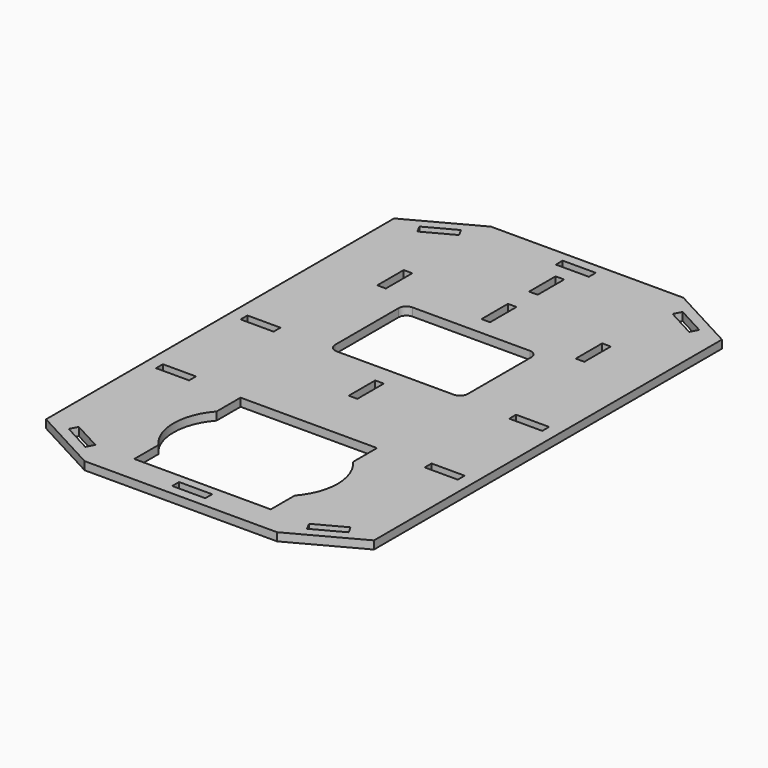
from build123d import *

# Parameters (mm, degrees)
F0_W     = 12.7
F0_H     = 3.299692
F0_H_2   = 3.3
F0_W_2   = 3.3
F0_H_3   = 12.7
F0_H_4   = 3.300001
F1_DEPTH = 3.1


with BuildPart() as f1:
    # F0 (on Top) → F1 (new body)
    with BuildSketch(Plane.XY):
        Polygon((-62.95, -83.5), (-36.95, -97.5), (36.95, -97.5), (62.95, -83.5), (62.95, 83.5), (36.95, 97.5), (-36.95, 97.5), (-62.95, 83.5), align=None)
        Polygon((-53.739412, -84.143676), (-52.174883, -81.238121), (-40.9929, -87.259189), (-42.557429, -90.164744), align=None, mode=Mode.SUBTRACT)
        with Locations((-51.5786, -35.350154)):
            Rectangle(F0_W, F0_H, mode=Mode.SUBTRACT)
        with Locations((0, -92.05)):
            Rectangle(F0_W, F0_H_2, mode=Mode.SUBTRACT)
        with BuildLine():
            Line((-26.2, -47.6), (-26.2, -36.1))
            Line((-26.2, -36.1), (26.2, -36.1))
            Line((26.2, -36.1), (26.2, -47.6))
            ThreePointArc((26.2, -47.6), (31.5, -61.6), (26.2, -75.6))
            Line((26.2, -75.6), (26.2, -87.1))
            Line((26.2, -87.1), (-26.2, -87.1))
            Line((-26.2, -87.1), (-26.2, -75.6))
            ThreePointArc((-26.2, -75.6), (-31.5, -61.6), (-26.2, -47.6))
        make_face(mode=Mode.SUBTRACT)
        Polygon((52.174883, -81.238121), (53.739412, -84.143676), (42.557429, -90.164744), (40.9929, -87.259189), align=None, mode=Mode.SUBTRACT)
        with Locations((0, -8.5)):
            Rectangle(F0_W_2, F0_H_3, mode=Mode.SUBTRACT)
        with Locations((51.5786, -35.350154)):
            Rectangle(F0_W, F0_H, mode=Mode.SUBTRACT)
        with Locations((-51.5786, 5.199692)):
            Rectangle(F0_W, F0_H_4, mode=Mode.SUBTRACT)
        with Locations((-38.1, 52.8)):
            Rectangle(F0_W_2, F0_H_3, mode=Mode.SUBTRACT)
        Polygon((-42.557429, 90.164744), (-40.9929, 87.259189), (-52.174883, 81.238121), (-53.739412, 84.143676), align=None, mode=Mode.SUBTRACT)
        with BuildLine():
            Line((22.5, 5.35), (-22.5, 5.35))
            ThreePointArc((-22.5, 5.35), (-24.62132, 6.22868), (-25.5, 8.35))
            Line((-25.5, 8.35), (-25.5, 38.85))
            ThreePointArc((-25.5, 38.85), (-24.62132, 40.97132), (-22.5, 41.85))
            Line((-22.5, 41.85), (22.5, 41.85))
            ThreePointArc((22.5, 41.85), (24.62132, 40.97132), (25.5, 38.85))
            Line((25.5, 38.85), (25.5, 8.35))
            ThreePointArc((25.5, 8.35), (24.62132, 6.22868), (22.5, 5.35))
        make_face(mode=Mode.SUBTRACT)
        with Locations((51.5786, 5.199692)):
            Rectangle(F0_W, F0_H_4, mode=Mode.SUBTRACT)
        with Locations((0, 55.2)):
            Rectangle(F0_W_2, F0_H_3, mode=Mode.SUBTRACT)
        with Locations((0, 78.05)):
            Rectangle(F0_W_2, F0_H_3, mode=Mode.SUBTRACT)
        with Locations((0, 92.05)):
            Rectangle(F0_W, F0_H_2, mode=Mode.SUBTRACT)
        with Locations((38.1, 52.8)):
            Rectangle(F0_W_2, F0_H_3, mode=Mode.SUBTRACT)
        Polygon((52.174883, 81.238121), (40.9929, 87.259189), (42.557429, 90.164744), (53.739412, 84.143676), align=None, mode=Mode.SUBTRACT)
    extrude(amount=F1_DEPTH)


solid = f1.part
